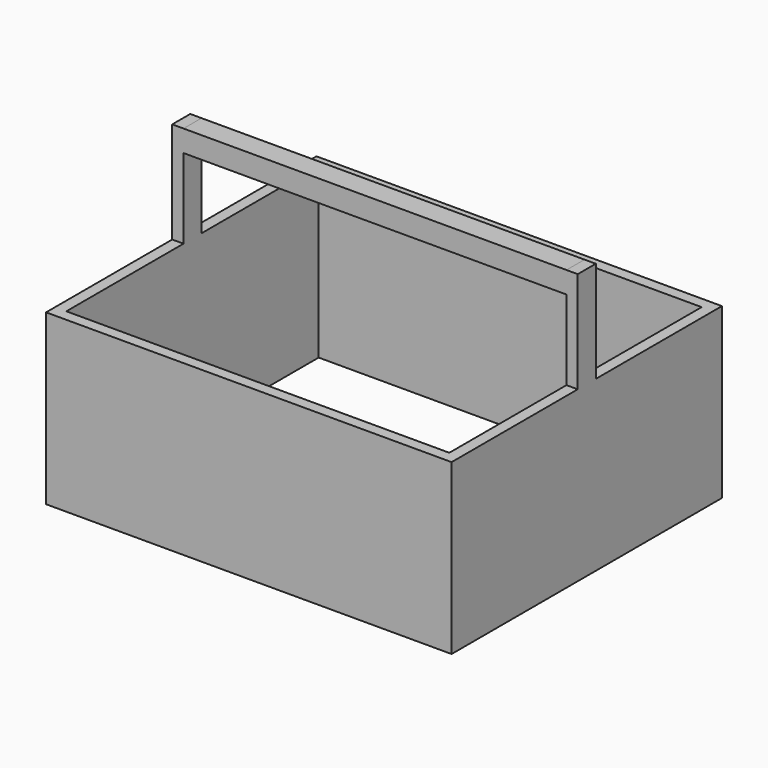
from build123d import *

# Parameters (mm, degrees)
F0_W     = 1828.8
F0_H     = 1524
F0_W_2   = 1727.2
F0_H_2   = 1422.4
F1_DEPTH = 762
F2_W     = 50.8
F2_H     = 101.6
F3_DEPTH = 457.2
F4_W     = 101.6
F4_H     = 97.386703
F5_DEPTH = 1727.2


with BuildPart() as f1:
    # F0 (on Top) → F1 (new body)
    with BuildSketch(Plane.XY):
        with Locations((304.06681, 16.968179)):
            Rectangle(F0_W, F0_H)
        with Locations((304.06681, 16.968179)):
            Rectangle(F0_W_2, F0_H_2, mode=Mode.SUBTRACT)
    extrude(amount=F1_DEPTH)

    # F2 (on face) → F3 (join)
    with BuildSketch(Plane.XY.offset(762)):
        with Locations((-584.93319, 16.968179)):
            Rectangle(F2_W, F2_H)
        with Locations((1193.06681, 16.968179)):
            Rectangle(F2_W, F2_H)
    extrude(amount=F3_DEPTH)

    # F4 (on face) → F5 (join, through all)
    with BuildSketch(Plane.YZ.offset(-559.53319)):
        with Locations((16.968179, 1170.506648)):
            Rectangle(F4_W, F4_H)
    extrude(amount=F5_DEPTH)


solid = f1.part
